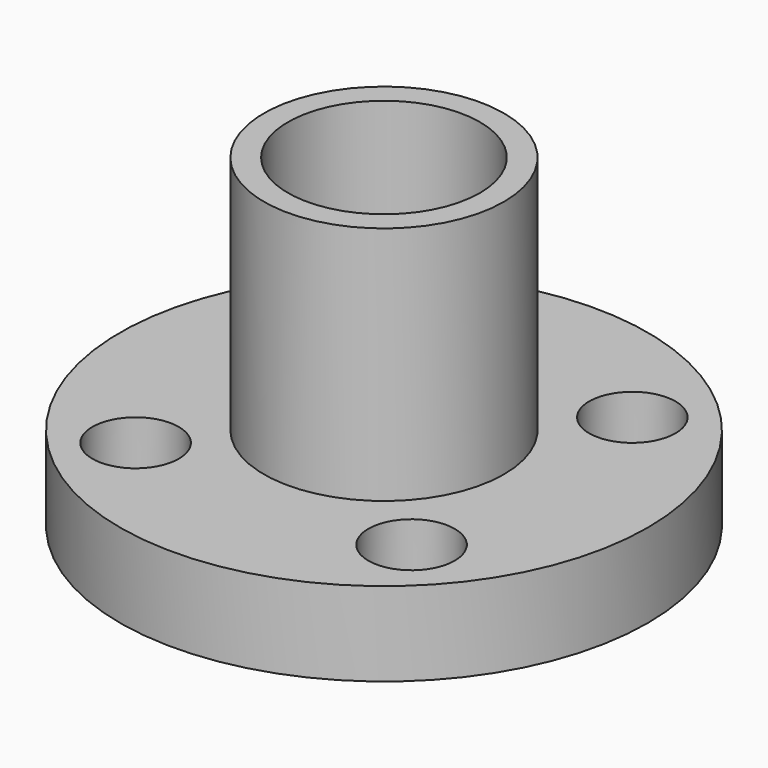
from build123d import *

# Parameters (mm, degrees)
SKETCH_R     = 11
SKETCH_R_2   = 1.8
PAD_DEPTH    = 3.5
SKETCH001_R  = 5
PAD001_DEPTH = 10
SKETCH002_R  = 5
PAD002_DEPTH = 2
SKETCH003_R  = 4
POCKET_DEPTH = 15.5


with BuildPart() as part:
    # Sketch → Pad (new body)
    with BuildSketch(Plane.XY):
        Circle(SKETCH_R)
        with Locations((-5.75, 5.75)):
            Circle(SKETCH_R_2, mode=Mode.SUBTRACT)
        with Locations((5.75, 5.75)):
            Circle(SKETCH_R_2, mode=Mode.SUBTRACT)
        with Locations((5.75, -5.75)):
            Circle(SKETCH_R_2, mode=Mode.SUBTRACT)
        with Locations((-5.75, -5.75)):
            Circle(SKETCH_R_2, mode=Mode.SUBTRACT)
    extrude(amount=PAD_DEPTH)

    # Sketch001 → Pad001 (new body)
    with BuildSketch(Plane.XY.offset(3.5)):
        Circle(SKETCH001_R)
    extrude(amount=PAD001_DEPTH)

    # Sketch002 → Pad002 (new body)
    with BuildSketch(Plane(origin=(0, 0, 0), x_dir=(1, 0, 0), z_dir=(0, 0, -1))):
        Circle(SKETCH002_R)
    extrude(amount=PAD002_DEPTH)

    # Sketch003 → Pocket (cut)
    with BuildSketch(Plane(origin=(0, 0, -2), x_dir=(1, 0, 0), z_dir=(0, 0, -1))):
        Circle(SKETCH003_R)
    extrude(amount=-POCKET_DEPTH, mode=Mode.SUBTRACT)


solid = part.part
